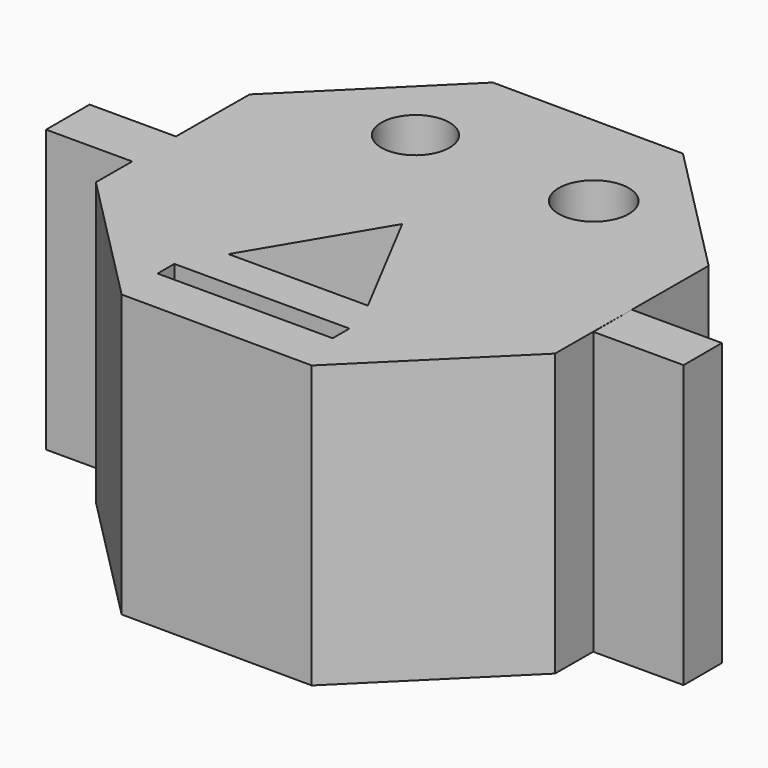
from build123d import *

# Parameters (mm, degrees)
F0_W     = 8.1272829846
F0_H     = 4.322592248
F1_DEPTH = 25.4
F0_W_2   = 15.7897871686
F0_H_2   = 1.8892554425
F0_R     = 3.0715401704
F0_R_2   = 3.1598016153


with BuildPart() as f1:
    # F0 (on Top) → F1 (new body)
    with BuildSketch(Plane.XY):
        with Locations((16.5060909204, 2.161296124)):
            Rectangle(F0_W, F0_H)
    extrude(amount=F1_DEPTH)


with BuildPart() as f1b:
    # F0 (on Top) → F1, piece 2 (new body)
    with BuildSketch(Plane.XY):
        Polygon((12.4424494281, 4.322592248), (12.4875431777, 12.9300337285), (0.3785548911, 25.1665663998), (-16.8363280697, 25.2567538992), (-29.0728607411, 13.1477656126), (-29.1179544907, 4.5403241321), (-29.1179544907, 0), (-29.1417409133, 0), (-29.1630482404, -4.0671173483), (-17.0540599538, -16.3036500196), (0.1608230071, -16.393837519), (12.3973556784, -4.2848492324), align=None)
        with Locations((-9.177925589, -11.2839710969)):
            Rectangle(F0_W_2, F0_H_2, mode=Mode.SUBTRACT)
        Polygon((-2.4592017289, -6.7956452258), (-15.0251816958, -6.7956452258), (-8.3377525313, 4.4314581901), align=None, mode=Mode.SUBTRACT)
        with Locations((-16.0768646747, 15.5925387517)):
            Circle(F0_R, mode=Mode.SUBTRACT)
        with Locations((0, 15.5925387517)):
            Circle(F0_R_2, mode=Mode.SUBTRACT)
        Polygon((-29.1179544907, 0), (-29.1179544907, 4.5403241321), (-29.1417409133, 0), align=None)
        Polygon((-29.1417409133, 0), (-29.1179544907, 4.5403241321), (-29.1179544907, 4.8998456855), (-36.9066260755, 4.8998456855), (-36.9066260755, 0), (-30.8301262558, 0), (-30.3895303704, 0), align=None)
    extrude(amount=F1_DEPTH)


solid = Compound([f1.part, f1b.part])
